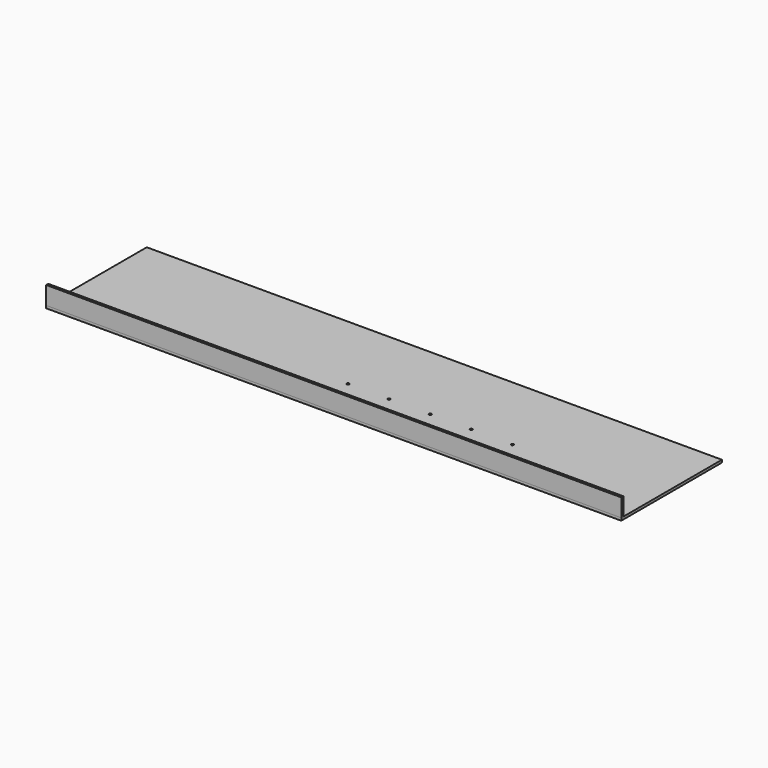
from build123d import *

# Parameters (mm, degrees)
F0_W     = 355.6
F0_H     = 1.5875
F1_DEPTH = 12.7
F0_H_2   = 76.2
F2_DEPTH = 1.5875
F3_D     = 1.5875


with BuildPart() as f1:
    # F0 (on Top) → F1 (new body)
    with BuildSketch(Plane.XY):
        with Locations((0, -38.89375)):
            Rectangle(F0_W, F0_H)
    extrude(amount=F1_DEPTH)


with BuildPart() as f2:
    # F0 (on Top) → F2 (new body)
    with BuildSketch(Plane.XY):
        Rectangle(F0_W, F0_H_2)
        with Locations((0, -38.89375)):
            Rectangle(F0_W, F0_H)
    extrude(amount=F2_DEPTH)

    # F3 (through all)
    with Locations(Plane(origin=(0, 0, 0), x_dir=(1, 0, 0), z_dir=(0, 0, -1))):
        with Locations((0, 25.4), (-25.4, 25.4), (-50.8, 25.4), (-76.2, 25.4), (50.8, 25.4), (25.4, 25.4), (76.2, 25.4), (101.6, 25.4), (127, 25.4), (152.4, 25.4), (-101.6, 25.4), (-127, 25.4), (-152.4, 25.4), (-12.7, 12.7), (12.7, 12.7), (38.1, 12.7), (63.5, 12.7), (88.9, 12.7)):
            Hole(F3_D / 2)


solid = Compound([f1.part, f2.part])
